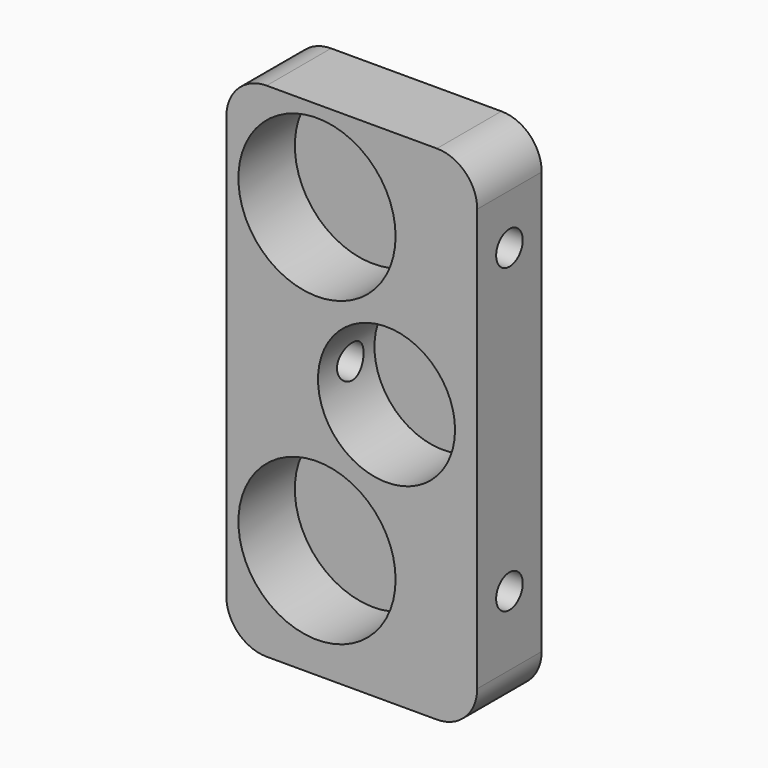
from build123d import *

# Parameters (mm, degrees)
F1_DEPTH = 8
F2_R     = 7.8
F2_R_2   = 6.8
F3_DEPTH = 7
F4_R     = 1.65
F5_DEPTH = 8.2775166443
F6_R     = 1.65
F7_DEPTH = 9.3042205827


with BuildPart() as f1:
    # F0 (on Front) → F1 (new body)
    with BuildSketch(Plane.XZ):
        with BuildLine():
            Line((20.9, 0), (4, 0))
            ThreePointArc((4, 0), (1.1715728753, -1.1715728753), (0, -4))
            Line((0, -4), (0, -45.9))
            ThreePointArc((0, -45.9), (1.1715728753, -48.7284271247), (4, -49.9))
            Line((4, -49.9), (20.9, -49.9))
            ThreePointArc((20.9, -49.9), (23.7284271247, -48.7284271247), (24.9, -45.9))
            Line((24.9, -45.9), (24.9, -4))
            ThreePointArc((24.9, -4), (23.7284271247, -1.1715728753), (20.9, 0))
        make_face()
    extrude(amount=F1_DEPTH)

    # F2 (on face) → F3 (cut)
    with BuildSketch(Plane.XZ.offset(8)):
        with Locations((9, -9)):
            Circle(F2_R)
        with Locations((15.9, -24)):
            Circle(F2_R_2)
        with Locations((9, -39)):
            Circle(F2_R)
    extrude(amount=-F3_DEPTH, mode=Mode.SUBTRACT)

    # F4 (on face) → F5 (cut, through all)
    with BuildSketch(Plane.YZ.offset(24.9)):
        with Locations((-4, -39)):
            Circle(F4_R)
        with Locations((-4, -9)):
            Circle(F4_R)
    extrude(amount=-F5_DEPTH, mode=Mode.SUBTRACT)

    # F6 (on face) → F7 (cut, through all)
    with BuildSketch(Plane(origin=(0, 0, 0), x_dir=(0, -1, 0), z_dir=(-1, 0, 0))):
        with Locations((4, -24)):
            Circle(F6_R)
    extrude(amount=-F7_DEPTH, mode=Mode.SUBTRACT)


solid = f1.part
